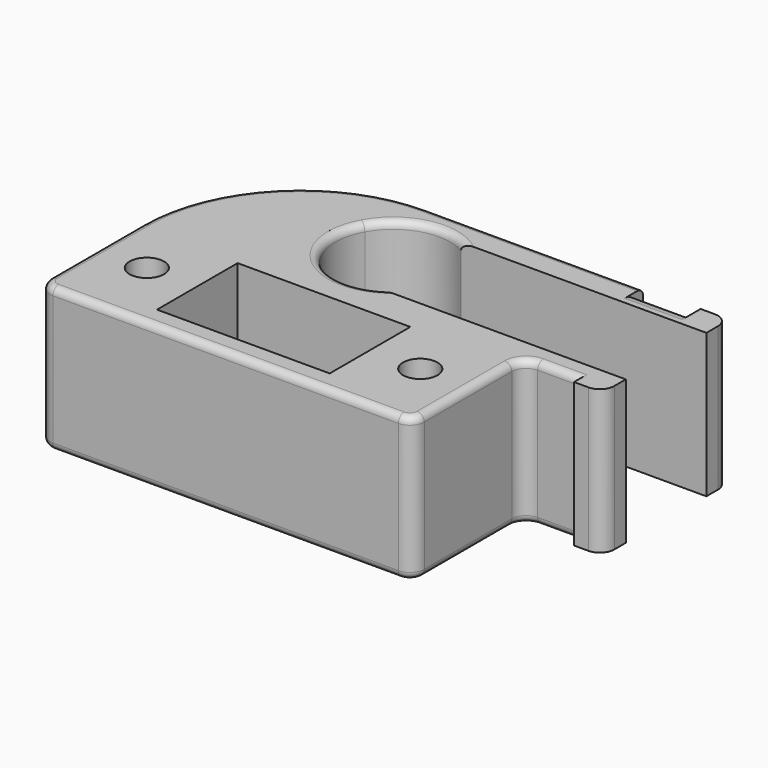
from build123d import *

# Parameters (mm, degrees)
F0_R     = 1.2
F1_DEPTH = 10
F2_R     = 1
F3_R     = 11
F4_W     = 12
F4_H     = 7
F5_DEPTH = 10
F6_R     = 0.5


with BuildPart() as f1:
    # F0 (on Top) → F1 (new body)
    with BuildSketch(Plane.XY):
        with BuildLine():
            ThreePointArc((1.9364916731, -3.5), (-2.8284271247, -2.8284271247), (-3.5, 1.9364916731))
            ThreePointArc((-3.5, 1.9364916731), (-1.1055673404, 3.8441801279), (1.9364916731, 3.5))
            Line((1.9364916731, 3.5), (18.9797490537, 3.5))
            Line((18.9797490537, 3.5), (18.9797490537, 5.5))
            Line((18.9797490537, 5.5), (16.9797490537, 5.5))
            Line((16.9797490537, 5.5), (16.9797490537, 4.9))
            Line((16.9797490537, 4.9), (12.9797490537, 4.9))
            Line((12.9797490537, 4.9), (12.9797490537, 5.5))
            Line((12.9797490537, 5.5), (-13.0202509463, 5.5))
            Line((-13.0202509463, 5.5), (-13.0202509463, -4.5))
            Line((-13.0202509463, -4.5), (-13.0202509463, -14.5))
            Line((-13.0202509463, -14.5), (12.9797490537, -14.5))
            Line((12.9797490537, -14.5), (12.9797490537, -5.5))
            Line((12.9797490537, -5.5), (12.9797490537, -4.9))
            Line((12.9797490537, -4.9), (16.9797490537, -4.9))
            Line((16.9797490537, -4.9), (16.9797490537, -5.5))
            Line((16.9797490537, -5.5), (18.9797490537, -5.5))
            Line((18.9797490537, -5.5), (18.9797490537, -3.5))
            Line((18.9797490537, -3.5), (12.9797490537, -3.5))
            Line((12.9797490537, -3.5), (1.9364916731, -3.5))
        make_face()
        with Locations((-9.5, -9.5)):
            Circle(F0_R, mode=Mode.SUBTRACT)
        with Locations((9.5, -9.5)):
            Circle(F0_R, mode=Mode.SUBTRACT)
    extrude(amount=F1_DEPTH)

    # F2
    f2_edges = [f1.edges().sort_by_distance(p)[0] for p in [
        (18.979749, 5.5, 5),
        (18.979749, -5.5, 5),
        (14.979749, 4.9, 10),
        (14.979749, 4.9, 0),
        (12.979749, -4.9, 5),
        (12.979749, -14.5, 5),
        (-13.020251, -14.5, 5),
    ]]
    fillet(f2_edges, radius=F2_R)

    # F3
    f3_edges = [f1.edges().sort_by_distance(p)[0] for p in [
        (-13.020251, 5.5, 5),
    ]]
    fillet(f3_edges, radius=F3_R)

    # F4 (on face) → F5 (cut)
    with BuildSketch(Plane.XY.offset(10)):
        with Locations((0, -9.4900932163)):
            Rectangle(F4_W, F4_H)
    extrude(amount=-F5_DEPTH, mode=Mode.SUBTRACT)

    # F6
    f6_edges = [f1.edges().sort_by_distance(p)[0] for p in [
        (-9.798426, 2.278175, 10),
        (-9.798426, 2.278175, 0),
        (-4, 0, 0),
        (-4, 0, 10),
    ]]
    fillet(f6_edges, radius=F6_R)


solid = f1.part
